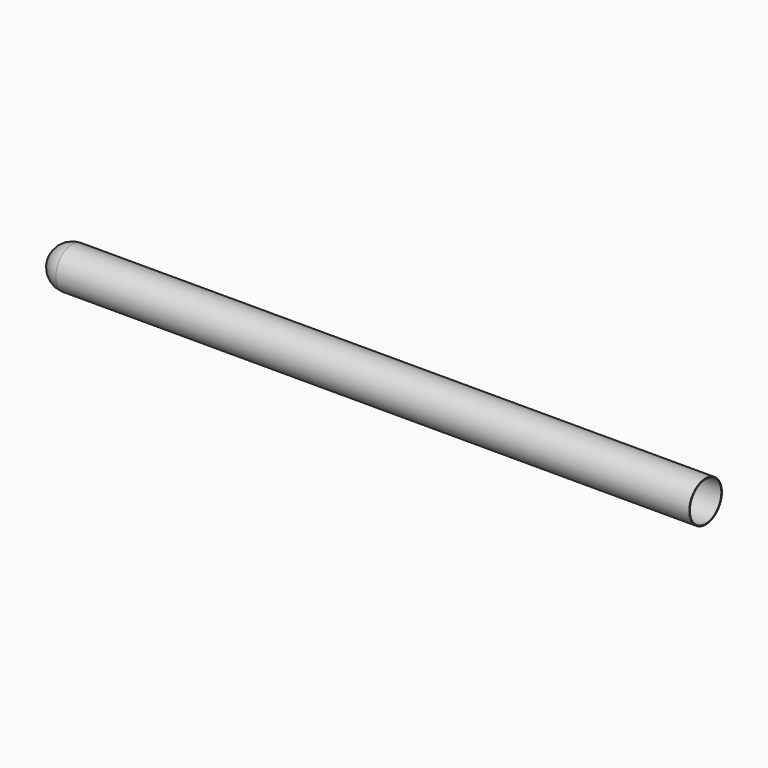
from build123d import *

# Parameters (mm, degrees)
F0_W = 7874
F0_H = 254
F2_T = -9.525


with BuildPart() as f1:
    # F0 (on Front) → F1 (revolve)
    with BuildSketch(Plane.XZ):
        Rectangle(F0_W, F0_H)
        with BuildLine():
            Line((-3937, -127), (-3937, 127))
            ThreePointArc((-3937, 127), (-4116.605122, 52.605122), (-4191, -127))
            Line((-4191, -127), (-3937, -127))
        make_face()
    revolve(axis=Axis((0, 0, -127), (-1, 0, 0)))

    # F2
    f2_openings = [f1.faces().sort_by_distance(p)[0] for p in [
        (3937, 0, -127),
    ]]
    offset(amount=F2_T, openings=f2_openings)


solid = f1.part
